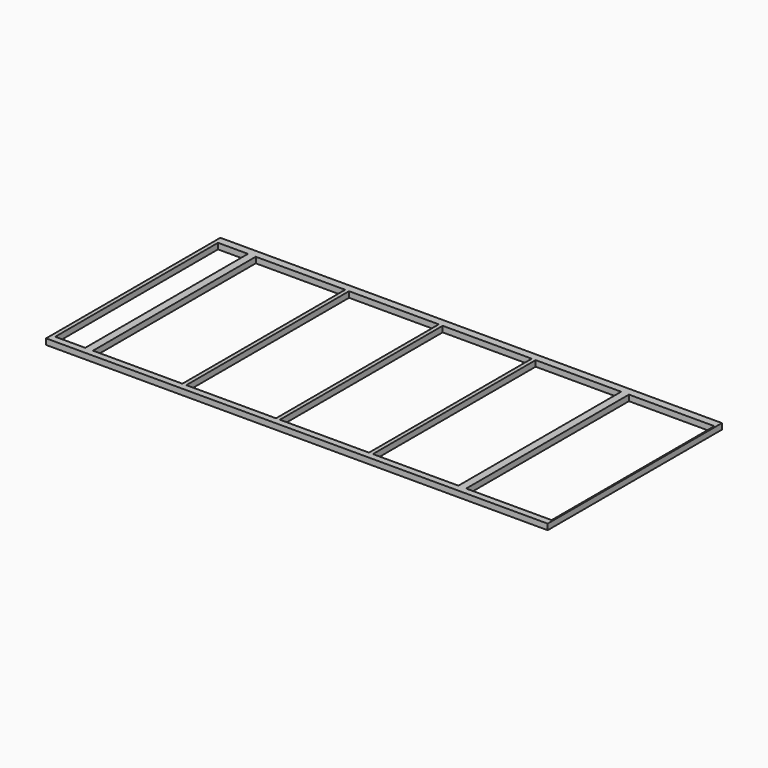
from build123d import *

# Parameters (mm, degrees)
F0_W     = 386
F0_H     = 2619
F0_W_2   = 1151
F0_W_3   = 1155
F0_W_4   = 1147
F0_W_5   = 1101
F0_W_6   = 1100
F1_DEPTH = 75


with BuildPart() as f1:
    # F0 (on Top) → F1 (new body)
    with BuildSketch(Plane.XY):
        Polygon((0, 2719), (0, 0), (0, -85), (6457, -85), (6457, 0), (6457, 2619), (6457, 2719), (50, 2719), align=None)
        with Locations((243, 1309.5)):
            Rectangle(F0_W, F0_H, mode=Mode.SUBTRACT)
        with Locations((1111.5, 1309.5)):
            Rectangle(F0_W_2, F0_H, mode=Mode.SUBTRACT)
        with Locations((2314.5, 1309.5)):
            Rectangle(F0_W_3, F0_H, mode=Mode.SUBTRACT)
        with Locations((3515.5, 1309.5)):
            Rectangle(F0_W_4, F0_H, mode=Mode.SUBTRACT)
        with Locations((4689.5, 1309.5)):
            Rectangle(F0_W_5, F0_H, mode=Mode.SUBTRACT)
        with Locations((5890, 1309.5)):
            Rectangle(F0_W_6, F0_H, mode=Mode.SUBTRACT)
    extrude(amount=F1_DEPTH)


solid = f1.part
